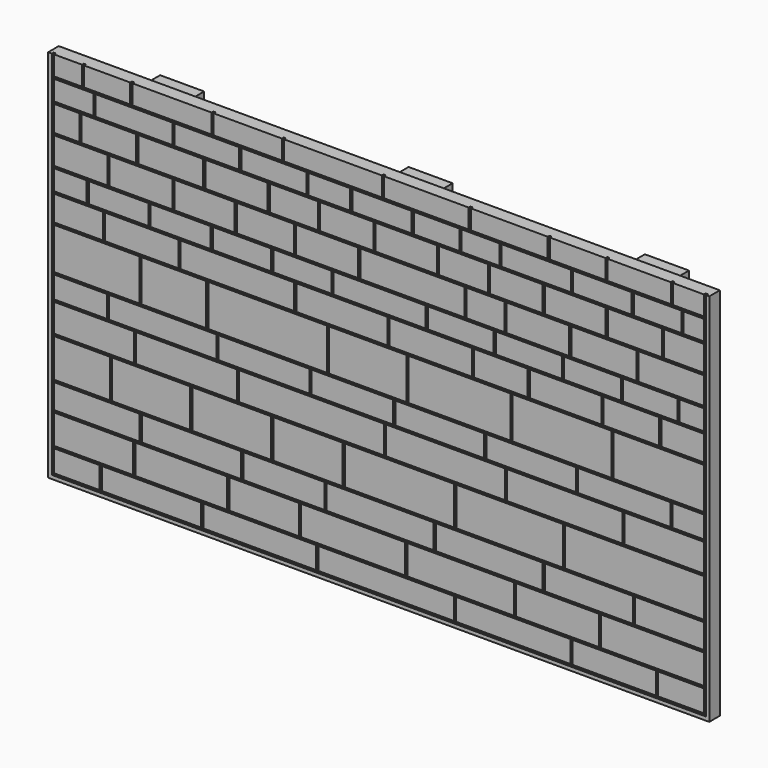
from build123d import *

# Parameters (mm, degrees)
F1_DEPTH = 3
F2_W     = 10.333912
F2_H     = 4.971454
F2_W_2   = 17.967941
F2_H_2   = 6.652788
F2_W_3   = 22.535251
F2_W_4   = 20.816058
F2_W_5   = 19.432617
F2_H_3   = 5.564571
F2_W_6   = 12.686262
F2_H_4   = 8.700799
F2_W_7   = 22.547029
F2_W_8   = 17.697406
F2_W_9   = 25.60952
F2_W_10  = 15.77712
F2_W_11  = 23.612244
F2_W_12  = 18.351386
F2_W_13  = 17.874939
F2_W_14  = 15.744513
F2_W_15  = 18.101098
F2_H_5   = 6.34386
F2_W_16  = 11.976121
F2_H_6   = 4.96299
F2_W_17  = 22.902101
F2_W_18  = 24.399376
F2_W_19  = 19.343847
F2_H_7   = 9.41525
F2_W_20  = 11.064199
F2_H_8   = 5.716212
F2_W_21  = 14.679301
F2_W_22  = 16.685602
F2_W_23  = 20.582357
F2_W_24  = 32.876703
F2_W_25  = 18.496315
F2_W_26  = 26.929259
F2_W_27  = 25.757527
F2_W_28  = 17.531647
F2_W_29  = 20.612667
F2_W_30  = 30.746276
F2_W_31  = 24.177458
F2_W_32  = 25.952811
F2_W_33  = 24.322385
F2_W_34  = 24.798832
F2_W_35  = 24.210065
F2_W_36  = 24.177456
F2_W_37  = 18.88399
F2_W_38  = 18.795228
F2_W_39  = 10.395774
F2_W_40  = 23.311485
F2_W_41  = 20.005365
F2_W_42  = 15.588687
F2_W_43  = 31.478126
F2_W_44  = 26.929258
F2_W_45  = 20.150296
F2_W_46  = 20.304284
F2_W_47  = 23.056081
F2_W_48  = 18.732673
F2_W_49  = 12.137638
F2_W_50  = 26.162955
F2_W_51  = 20.949207
F2_W_52  = 17.985419
F2_W_53  = 7.099578
F2_W_54  = 22.402102
F2_W_55  = 16.232734
F2_W_56  = 20.515297
F2_W_57  = 12.605034
F2_W_58  = 9.62946
F2_W_59  = 7.40104
F2_H_9   = 4.582087
F2_W_60  = 13.539926
F2_W_61  = 12.123574
F2_H_10  = 6.092823
F2_W_62  = 13.61767
F2_W_63  = 14.253902
F2_W_64  = 5.752595
F2_H_11  = 5.774686
F2_W_65  = 8.924989
F2_H_12  = 4.500037
F2_W_66  = 12.376186
F2_W_67  = 6.35355
F2_H_13  = 8.291733
F2_W_68  = 10.435426
F2_W_69  = 14.690164
F2_W_70  = 17.452013
F2_W_71  = 14.630333
F2_W_72  = 17.937205
F2_W_73  = 13.223233
F2_W_74  = 12.934361
F2_W_75  = 13.157021
F2_W_76  = 14.092705
F2_W_77  = 14.145143
F2_W_78  = 10.94313
F2_W_79  = 14.727489
F2_W_80  = 15.473934
F2_W_81  = 9.465047
F2_W_82  = 12.077607
F2_W_83  = 22.177133
F2_W_84  = 20.900474
F2_W_85  = 14.899291
F2_W_86  = 23.596256
F2_W_87  = 15.026064
F2_W_88  = 8.578447
F2_W_89  = 14.173304
F2_W_90  = 13.906397
F2_W_91  = 13.458531
F2_W_92  = 10.30865
F2_W_93  = 19.220972
F2_W_94  = 11.069905
F2_W_95  = 8.621443
F2_W_96  = 11.905804
F2_W_97  = 15.697871
F2_W_98  = 17.414692
F2_W_99  = 12.861376
F2_W_100 = 14.753901
F2_W_101 = 12.338863
F2_W_102 = 5.492576
F2_W_103 = 14.833414
F2_W_104 = 13.779623
F2_W_105 = 13.271918
F2_W_106 = 12.622631
F2_W_107 = 12.279027
F2_W_108 = 10.831164
F2_W_109 = 9.031953
F2_W_110 = 4.568086
F2_W_111 = 14.331758
F2_W_112 = 6.990233
F2_W_113 = 7.5
F2_H_14  = 0.5
F2_W_114 = 15
F3_DEPTH = 0.5
F4_W     = 10
F4_H     = 80
F5_DEPTH = 10
F7_DEPTH = 25


with BuildPart() as f1:
    # F0 (on Front) → F1 (new body)
    with BuildSketch(Plane.XZ):
        Polygon((-58.46712, 73.813683), (-65.96712, 73.813683), (-65.96712, -46.186317), (84.03288, -46.186317), (84.03288, 73.813683), (76.53288, 73.813683), (76.53288, 43.813683), (61.53288, 43.813683), (61.53288, 73.813683), (46.53288, 73.813683), (46.53288, 43.813683), (31.53288, 43.813683), (31.53288, 73.813683), (16.53288, 73.813683), (16.53288, 43.813683), (1.53288, 43.813683), (1.53288, 73.813683), (-13.46712, 73.813683), (-13.46712, 43.813683), (-28.46712, 43.813683), (-28.46712, 73.813683), (-43.46712, 73.813683), (-43.46712, 43.813683), (-58.46712, 43.813683), align=None)
    extrude(amount=F1_DEPTH)

    # F2 (on face) → F3 (cut)
    with BuildSketch(Plane.XZ.offset(3)):
        Polygon((83.31459, -45.356262), (83.31459, -39.384808), (83.31459, 34.421295), (83.31459, 43.213028), (-65.142944, 43.213028), (-65.142944, 34.421295), (-65.142944, -39.384808), (-65.142944, -45.356262), align=None)
        with Locations((-59.475988, -42.370535)):
            Rectangle(F2_W, F2_H, mode=Mode.SUBTRACT)
        with Locations((-55.658974, -36.058414)):
            Rectangle(F2_W_2, F2_H_2, mode=Mode.SUBTRACT)
        with Locations((-42.541406, -42.370535)):
            Rectangle(F2_W_3, F2_H, mode=Mode.SUBTRACT)
        with Locations((-35.766974, -36.058414)):
            Rectangle(F2_W_4, F2_H_2, mode=Mode.SUBTRACT)
        with Locations((-54.926636, -29.449734)):
            Rectangle(F2_W_5, F2_H_3, mode=Mode.SUBTRACT)
        with Locations((-58.299813, -21.817049)):
            Rectangle(F2_W_6, F2_H_4, mode=Mode.SUBTRACT)
        with Locations((-33.436813, -29.449734)):
            Rectangle(F2_W_7, F2_H_3, mode=Mode.SUBTRACT)
        with Locations((-42.607979, -21.817049)):
            Rectangle(F2_W_8, F2_H_4, mode=Mode.SUBTRACT)
        with Locations((-17.969021, -42.370535)):
            Rectangle(F2_W_9, F2_H, mode=Mode.SUBTRACT)
        with Locations((-16.970385, -36.058414)):
            Rectangle(F2_W_10, F2_H_2, mode=Mode.SUBTRACT)
        with Locations((3.224297, -36.058414)):
            Rectangle(F2_W_11, F2_H_2, mode=Mode.SUBTRACT)
        with Locations((-12.487605, -29.449734)):
            Rectangle(F2_W_12, F2_H_3, mode=Mode.SUBTRACT)
        with Locations((-24.321807, -21.817049)):
            Rectangle(F2_W_13, F2_H_4, mode=Mode.SUBTRACT)
        with Locations((-7.01208, -21.817049)):
            Rectangle(F2_W_14, F2_H_4, mode=Mode.SUBTRACT)
        with Locations((-55.592395, -13.79472)):
            Rectangle(F2_W_15, F2_H_5, mode=Mode.SUBTRACT)
        with Locations((-58.654883, -7.641295)):
            Rectangle(F2_W_16, F2_H_6, mode=Mode.SUBTRACT)
        with Locations((-34.590795, -13.79472)):
            Rectangle(F2_W_17, F2_H_5, mode=Mode.SUBTRACT)
        with Locations((-39.967135, -7.641295)):
            Rectangle(F2_W_18, F2_H_6, mode=Mode.SUBTRACT)
        with Locations((-54.97102, 0.047825)):
            Rectangle(F2_W_19, F2_H_7, mode=Mode.SUBTRACT)
        with Locations((-59.110844, 8.113556)):
            Rectangle(F2_W_20, F2_H_8, mode=Mode.SUBTRACT)
        with Locations((-37.459446, 0.047825)):
            Rectangle(F2_W_21, F2_H_7, mode=Mode.SUBTRACT)
        with Locations((-44.735944, 8.113556)):
            Rectangle(F2_W_22, F2_H_8, mode=Mode.SUBTRACT)
        with Locations((-16.976268, -7.641295)):
            Rectangle(F2_W_23, F2_H_6, mode=Mode.SUBTRACT)
        with Locations((-6.201393, -13.79472)):
            Rectangle(F2_W_24, F2_H_5, mode=Mode.SUBTRACT)
        with Locations((3.063068, -7.641295)):
            Rectangle(F2_W_25, F2_H_6, mode=Mode.SUBTRACT)
        with Locations((-16.155166, 0.047825)):
            Rectangle(F2_W_26, F2_H_7, mode=Mode.SUBTRACT)
        with Locations((-23.014379, 8.113556)):
            Rectangle(F2_W_27, F2_H_8, mode=Mode.SUBTRACT)
        with Locations((6.575286, 0.047825)):
            Rectangle(F2_W_28, F2_H_7, mode=Mode.SUBTRACT)
        with Locations((0.670718, 8.113556)):
            Rectangle(F2_W_29, F2_H_8, mode=Mode.SUBTRACT)
        with Locations((10.708877, -42.370535)):
            Rectangle(F2_W_30, F2_H, mode=Mode.SUBTRACT)
        with Locations((27.619148, -36.058414)):
            Rectangle(F2_W_31, F2_H_2, mode=Mode.SUBTRACT)
        with Locations((39.55842, -42.370535)):
            Rectangle(F2_W_32, F2_H, mode=Mode.SUBTRACT)
        with Locations((9.34928, -29.449734)):
            Rectangle(F2_W_33, F2_H_3, mode=Mode.SUBTRACT)
        with Locations((13.759592, -21.817049)):
            Rectangle(F2_W_34, F2_H_4, mode=Mode.SUBTRACT)
        with Locations((34.115505, -29.449734)):
            Rectangle(F2_W_35, F2_H_3, mode=Mode.SUBTRACT)
        with Locations((38.747736, -21.817049)):
            Rectangle(F2_W_36, F2_H_4, mode=Mode.SUBTRACT)
        with Locations((62.476821, -42.370535)):
            Rectangle(F2_W_37, F2_H, mode=Mode.SUBTRACT)
        with Locations((49.605491, -36.058414)):
            Rectangle(F2_W_38, F2_H_2, mode=Mode.SUBTRACT)
        with Locations((77.616703, -42.370535)):
            Rectangle(F2_W_39, F2_H, mode=Mode.SUBTRACT)
        with Locations((71.158847, -36.058414)):
            Rectangle(F2_W_40, F2_H_2, mode=Mode.SUBTRACT)
        with Locations((56.72322, -29.449734)):
            Rectangle(F2_W_41, F2_H_3, mode=Mode.SUBTRACT)
        with Locations((75.020246, -29.449734)):
            Rectangle(F2_W_42, F2_H_3, mode=Mode.SUBTRACT)
        with Locations((67.075527, -21.817049)):
            Rectangle(F2_W_43, F2_H_4, mode=Mode.SUBTRACT)
        with Locations((24.201587, -13.79472)):
            Rectangle(F2_W_44, F2_H_5, mode=Mode.SUBTRACT)
        with Locations((22.886373, -7.641295)):
            Rectangle(F2_W_45, F2_H_6, mode=Mode.SUBTRACT)
        with Locations((43.613663, -7.641295)):
            Rectangle(F2_W_46, F2_H_6, mode=Mode.SUBTRACT)
        with Locations((27.36915, 0.047825)):
            Rectangle(F2_W_47, F2_H_7, mode=Mode.SUBTRACT)
        with Locations((20.843387, 8.113556)):
            Rectangle(F2_W_48, F2_H_8, mode=Mode.SUBTRACT)
        with Locations((36.778543, 8.113556)):
            Rectangle(F2_W_49, F2_H_8, mode=Mode.SUBTRACT)
        with Locations((51.247693, -13.79472)):
            Rectangle(F2_W_50, F2_H_5, mode=Mode.SUBTRACT)
        with Locations((64.740409, -7.641295)):
            Rectangle(F2_W_51, F2_H_6, mode=Mode.SUBTRACT)
        with Locations((73.82188, -13.79472)):
            Rectangle(F2_W_52, F2_H_5, mode=Mode.SUBTRACT)
        with Locations((79.264801, -7.641295)):
            Rectangle(F2_W_53, F2_H_6, mode=Mode.SUBTRACT)
        with Locations((50.598242, 0.047825)):
            Rectangle(F2_W_54, F2_H_7, mode=Mode.SUBTRACT)
        with Locations((51.463729, 8.113556)):
            Rectangle(F2_W_55, F2_H_8, mode=Mode.SUBTRACT)
        with Locations((72.556941, 0.047825)):
            Rectangle(F2_W_56, F2_H_7, mode=Mode.SUBTRACT)
        with Locations((66.382613, 8.113556)):
            Rectangle(F2_W_57, F2_H_8, mode=Mode.SUBTRACT)
        with Locations((77.99986, 8.113556)):
            Rectangle(F2_W_58, F2_H_8, mode=Mode.SUBTRACT)
        with Locations((-60.942424, 13.762705)):
            Rectangle(F2_W_59, F2_H_9, mode=Mode.SUBTRACT)
        with Locations((-49.971941, 13.762705)):
            Rectangle(F2_W_60, F2_H_9, mode=Mode.SUBTRACT)
        with Locations((-58.581157, 19.600161)):
            Rectangle(F2_W_61, F2_H_10, mode=Mode.SUBTRACT)
        with Locations((-35.893143, 13.762705)):
            Rectangle(F2_W_62, F2_H_9, mode=Mode.SUBTRACT)
        with Locations((-44.892419, 19.600161)):
            Rectangle(F2_W_63, F2_H_10, mode=Mode.SUBTRACT)
        with Locations((-30.456633, 19.600161)):
            Rectangle(F2_W_62, F2_H_10, mode=Mode.SUBTRACT)
        with Locations((-61.766647, 26.033915)):
            Rectangle(F2_W_64, F2_H_11, mode=Mode.SUBTRACT)
        with Locations((-60.180449, 31.671276)):
            Rectangle(F2_W_65, F2_H_12, mode=Mode.SUBTRACT)
        with Locations((-52.202256, 26.033915)):
            Rectangle(F2_W_66, F2_H_11, mode=Mode.SUBTRACT)
        with Locations((-61.466169, 38.567161)):
            Rectangle(F2_W_67, F2_H_13, mode=Mode.SUBTRACT)
        with Locations((-52.571681, 38.567161)):
            Rectangle(F2_W_68, F2_H_13, mode=Mode.SUBTRACT)
        with Locations((-38.169081, 26.033915)):
            Rectangle(F2_W_69, F2_H_11, mode=Mode.SUBTRACT)
        with Locations((-46.491948, 31.671276)):
            Rectangle(F2_W_70, F2_H_12, mode=Mode.SUBTRACT)
        with Locations((-29.950775, 31.671276)):
            Rectangle(F2_W_71, F2_H_12, mode=Mode.SUBTRACT)
        with Locations((-37.885365, 38.567161)):
            Rectangle(F2_W_72, F2_H_13, mode=Mode.SUBTRACT)
        with Locations((-21.972691, 13.762705)):
            Rectangle(F2_W_73, F2_H_9, mode=Mode.SUBTRACT)
        with Locations((-16.680617, 19.600161)):
            Rectangle(F2_W_74, F2_H_10, mode=Mode.SUBTRACT)
        with Locations((-8.282564, 13.762705)):
            Rectangle(F2_W_75, F2_H_9, mode=Mode.SUBTRACT)
        with Locations((-2.667084, 19.600161)):
            Rectangle(F2_W_76, F2_H_10, mode=Mode.SUBTRACT)
        with Locations((-23.251427, 26.033915)):
            Rectangle(F2_W_77, F2_H_11, mode=Mode.SUBTRACT)
        with Locations((-10.207291, 26.033915)):
            Rectangle(F2_W_78, F2_H_11, mode=Mode.SUBTRACT)
        with Locations((-14.771864, 31.671276)):
            Rectangle(F2_W_79, F2_H_12, mode=Mode.SUBTRACT)
        with Locations((-20.679796, 38.567161)):
            Rectangle(F2_W_80, F2_H_13, mode=Mode.SUBTRACT)
        with Locations((-2.175596, 31.671276)):
            Rectangle(F2_W_81, F2_H_12, mode=Mode.SUBTRACT)
        with Locations((1.803078, 26.033915)):
            Rectangle(F2_W_82, F2_H_11, mode=Mode.SUBTRACT)
        with Locations((-1.354262, 38.567161)):
            Rectangle(F2_W_83, F2_H_13, mode=Mode.SUBTRACT)
        with Locations((9.246183, 13.762705)):
            Rectangle(F2_W_84, F2_H_9, mode=Mode.SUBTRACT)
        with Locations((27.646065, 13.762705)):
            Rectangle(F2_W_85, F2_H_9, mode=Mode.SUBTRACT)
        with Locations((16.677396, 19.600161)):
            Rectangle(F2_W_86, F2_H_10, mode=Mode.SUBTRACT)
        with Locations((43.108743, 13.762705)):
            Rectangle(F2_W_87, F2_H_9, mode=Mode.SUBTRACT)
        with Locations((33.264747, 19.600161)):
            Rectangle(F2_W_88, F2_H_10, mode=Mode.SUBTRACT)
        with Locations((45.140623, 19.600161)):
            Rectangle(F2_W_89, F2_H_10, mode=Mode.SUBTRACT)
        with Locations((15.295079, 26.033915)):
            Rectangle(F2_W_90, F2_H_11, mode=Mode.SUBTRACT)
        with Locations((9.786192, 31.671276)):
            Rectangle(F2_W_91, F2_H_12, mode=Mode.SUBTRACT)
        with Locations((22.169783, 31.671276)):
            Rectangle(F2_W_92, F2_H_12, mode=Mode.SUBTRACT)
        with Locations((19.84479, 38.567161)):
            Rectangle(F2_W_93, F2_H_13, mode=Mode.SUBTRACT)
        with Locations((28.28323, 26.033915)):
            Rectangle(F2_W_94, F2_H_11, mode=Mode.SUBTRACT)
        with Locations((32.13483, 31.671276)):
            Rectangle(F2_W_95, F2_H_12, mode=Mode.SUBTRACT)
        with Locations((40.271085, 26.033915)):
            Rectangle(F2_W_96, F2_H_11, mode=Mode.SUBTRACT)
        with Locations((44.794487, 31.671276)):
            Rectangle(F2_W_97, F2_H_12, mode=Mode.SUBTRACT)
        with Locations((38.662622, 38.567161)):
            Rectangle(F2_W_98, F2_H_13, mode=Mode.SUBTRACT)
        with Locations((57.552463, 13.762705)):
            Rectangle(F2_W_99, F2_H_9, mode=Mode.SUBTRACT)
        with Locations((60.104225, 19.600161)):
            Rectangle(F2_W_100, F2_H_10, mode=Mode.SUBTRACT)
        with Locations((70.652582, 13.762705)):
            Rectangle(F2_W_101, F2_H_9, mode=Mode.SUBTRACT)
        with Locations((80.068302, 13.762705)):
            Rectangle(F2_W_102, F2_H_9, mode=Mode.SUBTRACT)
        with Locations((75.397883, 19.600161)):
            Rectangle(F2_W_103, F2_H_10, mode=Mode.SUBTRACT)
        with Locations((53.613799, 26.033915)):
            Rectangle(F2_W_104, F2_H_11, mode=Mode.SUBTRACT)
        with Locations((59.779381, 31.671276)):
            Rectangle(F2_W_105, F2_H_12, mode=Mode.SUBTRACT)
        with Locations((54.181283, 38.567161)):
            Rectangle(F2_W_106, F2_H_13, mode=Mode.SUBTRACT)
        with Locations((67.143124, 26.033915)):
            Rectangle(F2_W_107, F2_H_11, mode=Mode.SUBTRACT)
        with Locations((72.330922, 31.671276)):
            Rectangle(F2_W_108, F2_H_12, mode=Mode.SUBTRACT)
        with Locations((78.298613, 26.033915)):
            Rectangle(F2_W_109, F2_H_11, mode=Mode.SUBTRACT)
        with Locations((80.530547, 31.671276)):
            Rectangle(F2_W_110, F2_H_12, mode=Mode.SUBTRACT)
        with Locations((68.158478, 38.567161)):
            Rectangle(F2_W_111, F2_H_13, mode=Mode.SUBTRACT)
        with Locations((79.319473, 38.567161)):
            Rectangle(F2_W_112, F2_H_13, mode=Mode.SUBTRACT)
        with Locations((-62.21712, 49.136009)):
            Rectangle(F2_W_113, F2_H_14)
        with Locations((-62.21712, 68.319659)):
            Rectangle(F2_W_113, F2_H_14)
        with Locations((-62.21712, 61.624162)):
            Rectangle(F2_W_113, F2_H_14)
        with Locations((-62.21712, 57.048335)):
            Rectangle(F2_W_113, F2_H_14)
        with Locations((80.28288, 61.624162)):
            Rectangle(F2_W_113, F2_H_14)
        with Locations((80.28288, 57.048335)):
            Rectangle(F2_W_113, F2_H_14)
        with Locations((54.03288, 68.319659)):
            Rectangle(F2_W_114, F2_H_14)
        with Locations((-35.96712, 49.136009)):
            Rectangle(F2_W_114, F2_H_14)
        with Locations((24.03288, 68.319659)):
            Rectangle(F2_W_114, F2_H_14)
        with Locations((24.03288, 49.136009)):
            Rectangle(F2_W_114, F2_H_14)
        with Locations((80.28288, 68.319659)):
            Rectangle(F2_W_113, F2_H_14)
        with Locations((80.28288, 49.136009)):
            Rectangle(F2_W_113, F2_H_14)
        with Locations((54.03288, 57.048335)):
            Rectangle(F2_W_114, F2_H_14)
        with Locations((54.03288, 49.136009)):
            Rectangle(F2_W_114, F2_H_14)
        with Locations((54.03288, 61.624162)):
            Rectangle(F2_W_114, F2_H_14)
        with Locations((24.03288, 61.624162)):
            Rectangle(F2_W_114, F2_H_14)
        with Locations((24.03288, 57.048335)):
            Rectangle(F2_W_114, F2_H_14)
        with Locations((-5.96712, 68.319659)):
            Rectangle(F2_W_114, F2_H_14)
        with Locations((-5.96712, 57.048335)):
            Rectangle(F2_W_114, F2_H_14)
        with Locations((-5.96712, 61.624162)):
            Rectangle(F2_W_114, F2_H_14)
        with Locations((-5.96712, 49.136009)):
            Rectangle(F2_W_114, F2_H_14)
        with Locations((-35.96712, 68.319659)):
            Rectangle(F2_W_114, F2_H_14)
        with Locations((-35.96712, 57.048335)):
            Rectangle(F2_W_114, F2_H_14)
        with Locations((-35.96712, 61.624162)):
            Rectangle(F2_W_114, F2_H_14)
    extrude(amount=-F3_DEPTH, mode=Mode.SUBTRACT)

    # F4 (on face) → F5 (join)
    with BuildSketch(Plane(origin=(0, 0, 0), x_dir=(-1, 0, 0), z_dir=(0, 1, 0))):
        with Locations((-64.03288, -6.186317)):
            Rectangle(F4_W, F4_H)
        with Locations((-10.40999, -6.186317)):
            Rectangle(F4_W, F4_H)
        with Locations((45.96712, -6.186317)):
            Rectangle(F4_W, F4_H)
    extrude(amount=F5_DEPTH)

    # F6 (on face) → F7 (cut)
    with BuildSketch(Plane(origin=(0, 0, 0), x_dir=(-1, 0, 0), z_dir=(0, 1, 0))):
        Polygon((-84.03288, 38.813683), (-80.019847, 38.813683), (65.96712, 38.813683), (65.96712, 73.813683), (-84.03288, 73.813683), align=None)
    extrude(amount=-F7_DEPTH, mode=Mode.SUBTRACT)


solid = f1.part
